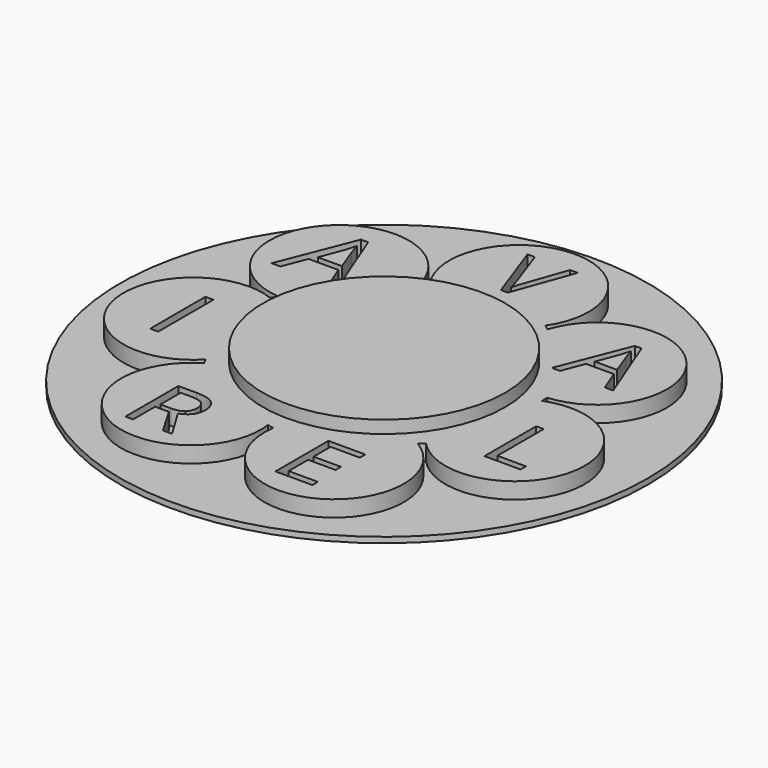
from build123d import *

# Parameters (mm, degrees)
F0_R     = 43.8036785808
F1_DEPTH = 10.414
F0_W     = 2.8950411615
F0_H     = 24.910438921
F2_DEPTH = 5.842
F3_DEPTH = 5.588
F4_R     = 95.4127414117
F5_DEPTH = 2.032


with BuildPart() as f1:
    # F0 (on Top) → F1 (new body)
    with BuildSketch(Plane.XY):
        Circle(F0_R)
    extrude(amount=F1_DEPTH)

    # F0 (on Top) → F2 (join)
    with BuildSketch(Plane.XY):
        with BuildLine():
            Line((23.3989122151, 44.5680174699), (21.5216763318, 46.0817106068))
            ThreePointArc((21.5216763318, 46.0817106068), (0.6329901516, 85.3589574882), (-20.2556960285, 46.0817106068))
            Line((-20.2556960285, 46.0817106068), (-22.6095864066, 45.5578007272))
            ThreePointArc((-22.6095864066, 45.5578007272), (-66.3416573707, 53.7153311199), (-48.6573520217, 12.8949357612))
            Line((-48.6573520217, 12.8949357612), (-49.7153694293, 10.7279376902))
            ThreePointArc((-49.7153694293, 10.7279376902), (-83.3596837697, -18.3770351748), (-40.4190295135, -30.0019887214))
            Line((-40.4190295135, -30.0019887214), (-39.384465263, -32.1802812375))
            ThreePointArc((-39.384465263, -32.1802812375), (-37.6061680625, -76.6311191597), (-1.7443533837, -50.3068037677))
            Line((-1.7443533837, -50.3068037677), (0.603744543, -50.8560920353))
            ThreePointArc((0.603744543, -50.8560920353), (36.4655592218, -77.1804074273), (38.2438564224, -32.7295695052))
            Line((38.2438564224, -32.7295695052), (40.137322394, -31.2362282553))
            ThreePointArc((40.137322394, -31.2362282553), (83.0779766503, -19.6112747088), (49.4336623099, 9.4936981563))
            Line((49.4336623099, 9.4936981563), (49.4466778301, 11.9051525039))
            ThreePointArc((49.4466778301, 11.9051525039), (67.1309831792, 52.7255478626), (23.3989122151, 44.5680174699))
        make_face()
        with BuildLine():
            Line((-28.5631664511, -61.511123346), (-33.5584082123, -61.511123346))
            Line((-33.5584082123, -61.511123346), (-33.5584082123, -71.4597180486))
            Line((-33.5584082123, -71.4597180486), (-36.3387786266, -71.4597180486))
            Line((-36.3387786266, -71.4597180486), (-36.3387786266, -47.53596584))
            Line((-36.3387786266, -47.53596584), (-29.7779422253, -47.53596584))
            add(Edge.make_bspline(
                [(-29.7779422253, -47.53596584), (-25.3743800438, -47.53596584), (-23.2720849001, -49.221990837)],
                knots=[0, 0, 0, 1, 1, 1], degree=2))
            add(Edge.make_bspline(
                [(-23.2720849001, -49.221990837), (-21.1697897563, -50.908015834), (-21.1697897563, -54.2957741353)],
                knots=[0, 0, 0, 1, 1, 1], degree=2))
            add(Edge.make_bspline(
                [(-21.1697897563, -54.2957741353), (-21.1697897563, -59.0396829777), (-25.9817679309, -60.7099996673)],
                knots=[0, 0, 0, 1, 1, 1], degree=2))
            Line((-25.9817679309, -60.7099996673), (-19.4837647594, -71.4597180486))
            Line((-19.4837647594, -71.4597180486), (-22.7720371137, -71.4597180486))
            Line((-22.7720371137, -71.4597180486), (-28.5631664511, -61.511123346))
        make_face(mode=Mode.SUBTRACT)
        with Locations((-62.9963150182, -12.6678496023)):
            Rectangle(F0_W, F0_H, mode=Mode.SUBTRACT)
        Polygon((31.0112974079, -68.6983813244), (31.0112974079, -71.185529232), (17.6749485221, -71.185529232), (17.6749485221, -47.261784411), (31.0112974079, -47.261784411), (31.0112974079, -49.7332240161), (20.4553180778, -49.7332240161), (20.4553180778, -57.4407644793), (30.3724931032, -57.4407644793), (30.3724931032, -59.8964957818), (20.4553180778, -59.8964957818), (20.4553180778, -68.6983813244), align=None, mode=Mode.SUBTRACT)
        Circle(F0_R, mode=Mode.SUBTRACT)
        Polygon((70.9381277669, -27.042336762), (57.9048754965, -27.042336762), (57.9048754965, -3.6623094265), (60.6220552985, -3.6623094265), (60.6220552985, -24.5810119319), (70.9381277669, -24.5810119319), align=None, mode=Mode.SUBTRACT)
        Polygon((-38.8012931435, 27.5197494775), (-42.041130883, 27.5197494775), (-45.3928902898, 36.0788117238), (-56.1786046552, 36.0788117238), (-59.4891297636, 27.5197494775), (-62.6582801342, 27.5197494775), (-52.0198311206, 54.5458868388), (-49.3867266305, 54.5458868388), align=None, mode=Mode.SUBTRACT)
        with BuildLine():
            Line((0.7720730743, 62.9007027286), (5.744391349, 76.8936827008))
            Line((5.744391349, 76.8936827008), (8.4639255777, 76.8936827008))
            Line((8.4639255777, 76.8936827008), (0.6244276083, 55.1326461136))
            Line((0.6244276083, 55.1326461136), (-1.8760198, 55.1326461136))
            Line((-1.8760198, 55.1326461136), (-9.6774157137, 76.8936827008))
            Line((-9.6774157137, 76.8936827008), (-6.9959835406, 76.8936827008))
            Line((-6.9959835406, 76.8936827008), (-1.9950887242, 62.8149731031))
            add(Edge.make_bspline(
                [(-1.9950887242, 62.8149731031), (-1.1330297129, 60.3859670494), (-0.6281774743, 58.0950809478)],
                knots=[0, 0, 0, 1, 1, 1], degree=2))
            add(Edge.make_bspline(
                [(-0.6281774743, 58.0950809478), (-0.0899859369, 60.5050359736), (0.7720730743, 62.9007027286)],
                knots=[0, 0, 0, 1, 1, 1], degree=2))
        make_face(mode=Mode.SUBTRACT)
        Polygon((61.2331293523, 26.9713848829), (58.2223704292, 26.9713848829), (55.1076034705, 34.9252625472), (45.0845133099, 34.9252625472), (42.0080651012, 26.9713848829), (39.0629954636, 26.9713848829), (48.9492329458, 52.0865884092), (51.3961588343, 52.0865884092), align=None, mode=Mode.SUBTRACT)
    extrude(amount=F2_DEPTH)


with BuildPart() as f2:
    # F0 (on Top) → F2, piece 2 (new body)
    with BuildSketch(Plane.XY):
        with BuildLine():
            Line((46.1136454509, 37.5418857568), (54.2043757935, 37.5418857568))
            Line((54.2043757935, 37.5418857568), (51.2921507988, 45.2932214571))
            add(Edge.make_bspline(
                [(51.2921507988, 45.2932214571), (50.7283177641, 46.7657562759), (50.1316400866, 48.9006580578)],
                knots=[0, 0, 0, 1, 1, 1], degree=2))
            add(Edge.make_bspline(
                [(50.1316400866, 48.9006580578), (49.7539266944, 47.2584259179), (49.0532409814, 45.2932214571)],
                knots=[0, 0, 0, 1, 1, 1], degree=2))
            Line((49.0532409814, 45.2932214571), (46.1136454509, 37.5418857568))
        make_face()
    extrude(amount=F2_DEPTH)


with BuildPart() as f3:
    # F0 (on Top) → F3 (new body)
    with BuildSketch(Plane.XY):
        with BuildLine():
            Line((-33.5584082123, -49.9759895934), (-33.5584082123, -59.1234606173))
            Line((-33.5584082123, -59.1234606173), (-29.741289508, -59.1234606173))
            add(Edge.make_bspline(
                [(-29.741289508, -59.1234606173), (-26.798599917, -59.1234606173), (-25.4241230173, -57.9531917142)],
                knots=[0, 0, 0, 1, 1, 1], degree=2))
            add(Edge.make_bspline(
                [(-25.4241230173, -57.9531917142), (-24.0496461176, -56.782922811), (-24.0496461176, -54.4423850046)],
                knots=[0, 0, 0, 1, 1, 1], degree=2))
            add(Edge.make_bspline(
                [(-24.0496461176, -54.4423850046), (-24.0496461176, -52.0704305834), (-25.4476854785, -51.0232100884)],
                knots=[0, 0, 0, 1, 1, 1], degree=2))
            add(Edge.make_bspline(
                [(-25.4476854785, -51.0232100884), (-26.8457248393, -49.9759895934), (-29.9402614021, -49.9759895934)],
                knots=[0, 0, 0, 1, 1, 1], degree=2))
            Line((-29.9402614021, -49.9759895934), (-33.5584082123, -49.9759895934))
        make_face()
    extrude(amount=F3_DEPTH)


with BuildPart() as f3b:
    # F0 (on Top) → F3, piece 2 (new body)
    with BuildSketch(Plane.XY):
        with BuildLine():
            Line((-55.0711692097, 38.8945252501), (-46.3648416116, 38.8945252501))
            Line((-46.3648416116, 38.8945252501), (-49.4986482978, 47.2356347758))
            add(Edge.make_bspline(
                [(-49.4986482978, 47.2356347758), (-50.1053815472, 48.8202099611), (-50.7474584811, 51.1175494491)],
                knots=[0, 0, 0, 1, 1, 1], degree=2))
            add(Edge.make_bspline(
                [(-50.7474584811, 51.1175494491), (-51.153910852, 49.3503652275), (-51.9079094532, 47.2356347758)],
                knots=[0, 0, 0, 1, 1, 1], degree=2))
            Line((-51.9079094532, 47.2356347758), (-55.0711692097, 38.8945252501))
        make_face()
    extrude(amount=F3_DEPTH)


with BuildPart() as f5:
    # F4 (on Top) → F5 (new body)
    with BuildSketch(Plane.XY):
        Circle(F4_R)
    extrude(amount=-F5_DEPTH)


solid = Compound([f1.part, f2.part, f3.part, f3b.part, f5.part])
